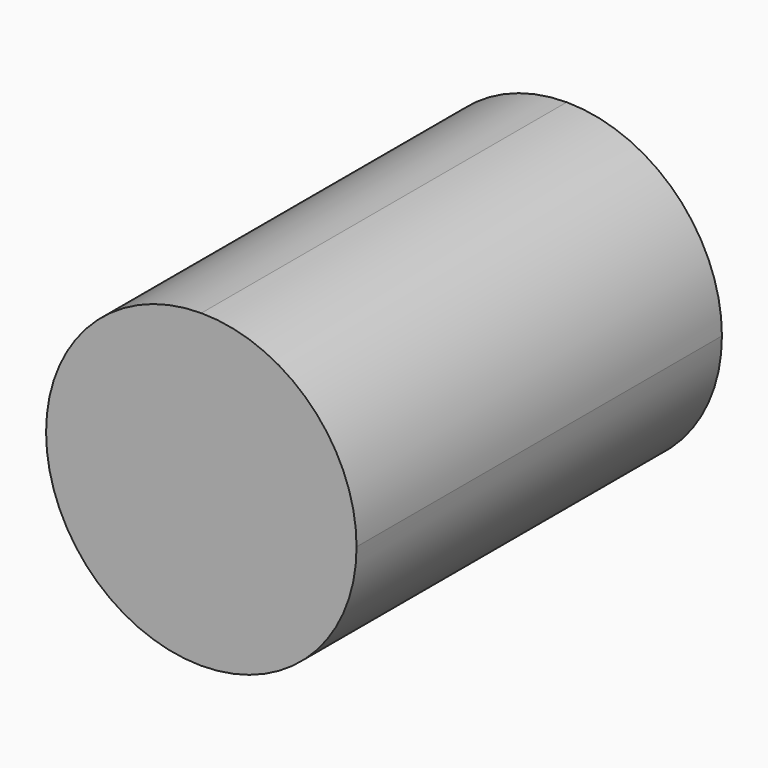
from build123d import *

# Parameters (mm, degrees)
F1_DEPTH = 25.4


with BuildPart() as f1:
    # F0 (on Front) → F1 (new body)
    with BuildSketch(Plane.XZ):
        with BuildLine():
            Line((0, 0), (8.634173, 0))
            ThreePointArc((8.634173, 0), (6.105282, 6.105282), (0, 8.634173))
            Line((0, 8.634173), (0, 0))
        make_face()
        with BuildLine():
            ThreePointArc((0, 8.634173), (-6.105282, -6.105282), (8.634173, 0))
            Line((8.634173, 0), (0, 0))
            Line((0, 0), (0, 8.634173))
        make_face()
    extrude(amount=F1_DEPTH)


solid = f1.part
